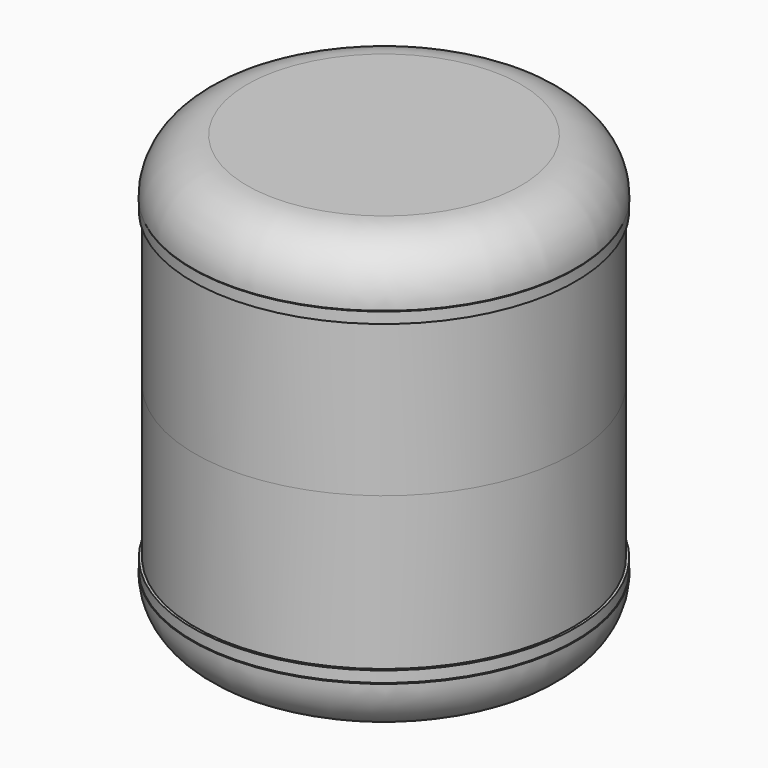
from build123d import *

# Parameters (mm, degrees)
F6_W = 1
F6_H = 28


with BuildPart() as f1:
    # F0 (on Front) → F1 (revolve)
    with BuildSketch(Plane.XZ):
        with BuildLine():
            Line((-25, 0), (0, 0))
            Line((0, 0), (0, 10.031330929))
            Line((0, 10.031330929), (-21.0599925694, 10.031330929))
            Line((-21.0599925694, 10.031330929), (-34.9999509185, 10.031330929))
            ThreePointArc((-34.9999509185, 10.031330929), (-32.0821363052, 2.9400180344), (-25, 0))
        make_face()
    revolve(axis=Axis((0, 0, 5.0156654645), (0, 0, -1)))


with BuildPart() as f3:
    # F2 (on Front) → F3 (revolve)
    with BuildSketch(Plane.XZ):
        Polygon((-34.9506689868, 12.1734843188), (-34.9506689868, 10.1734843188), (-28.9506689868, 10.1734843188), (-28.9506689868, 12.1734843188), (-30.9506689868, 12.1734843188), (-30.9506689868, 11.1734843188), (-32.9506689868, 11.1734843188), (-32.9506689868, 12.1734843188), align=None)
    revolve(axis=Axis((0, 0, 22.9168939404), (0, 0, -1)))


with BuildPart() as f5:
    # F4 (on Front) → F5 (revolve)
    with BuildSketch(Plane.XZ):
        Polygon((-28, 10.3866659856), (0, 10.3866659856), (0, 13.8866659856), (-3.5564508289, 13.8866659856), (-28, 12.3866659856), align=None)
    revolve(axis=Axis((0, 0, 12.1366659856), (0, 0, 1)))


with BuildPart() as f7:
    # F6 (on Front) → F7 (revolve)
    with BuildSketch(Plane.XZ):
        with Locations((-34, 26)):
            Rectangle(F6_W, F6_H)
    revolve(axis=Axis((0, 0, 18.1633082684), (0, 0, 1)))

    # F9: F7 across face


with BuildPart() as f8_1:
    # F8: instance of F5
    add(f5.part.mirror(Plane.XY.offset(40)))


with BuildPart() as f8_2:
    # F8: instance of F3
    add(f3.part.mirror(Plane.XY.offset(40)))


with BuildPart() as f8_3:
    # F8: instance of F1
    add(f1.part.mirror(Plane.XY.offset(40)))


with BuildPart() as f7_1:
    add(f7.part)
    add(f7.part.mirror(Plane.XY.offset(40)))


with BuildPart() as f11:
    # F10 (on Front) → F11 (revolve)
    with BuildSketch(Plane.XZ):
        with BuildLine():
            add(Edge.make_bspline(
                [(-9.4690360992, 23.8926882737), (-9.3506720688, 29.668249432), (-9.2323080383, 35.4438105903), (-7.236317452, 39.3574916781)],
                knots=[0, 0, 0, 0, 0.5544634756, 0.5544634756, 0.5544634756, 0.5544634756], degree=3))
            ThreePointArc((-9.4690360992, 23.8926882737), (-7.2322456278, 16.2625224001), (0, 12.9583907364))
            Line((0, 12.9583907364), (0, 46.3875756073))
            add(Edge.make_bspline(
                [(-7.236317452, 39.3574916781), (-5.6324485812, 42.5023117541), (-2.8162242906, 44.4449436807), (0, 46.3875756073)],
                knots=[0.5544634756, 0.5544634756, 0.5544634756, 0.5544634756, 1, 1, 1, 1], degree=3))
        make_face()
        with BuildLine():
            ThreePointArc((0, 46.3875756073), (-5.0444615748, 44.3406783051), (-7.236317452, 39.3574916781))
            add(Edge.make_bspline(
                [(-7.236317452, 39.3574916781), (-5.6324485812, 42.5023117541), (-2.8162242906, 44.4449436807), (0, 46.3875756073)],
                knots=[0.5544634756, 0.5544634756, 0.5544634756, 0.5544634756, 1, 1, 1, 1], degree=3))
        make_face()
    revolve(axis=Axis((0, 0, 29.6729831718), (0, 0, -1)))


solid = Compound([f1.part, f3.part, f5.part, f8_1.part, f8_2.part, f8_3.part, f7_1.part, f11.part])
